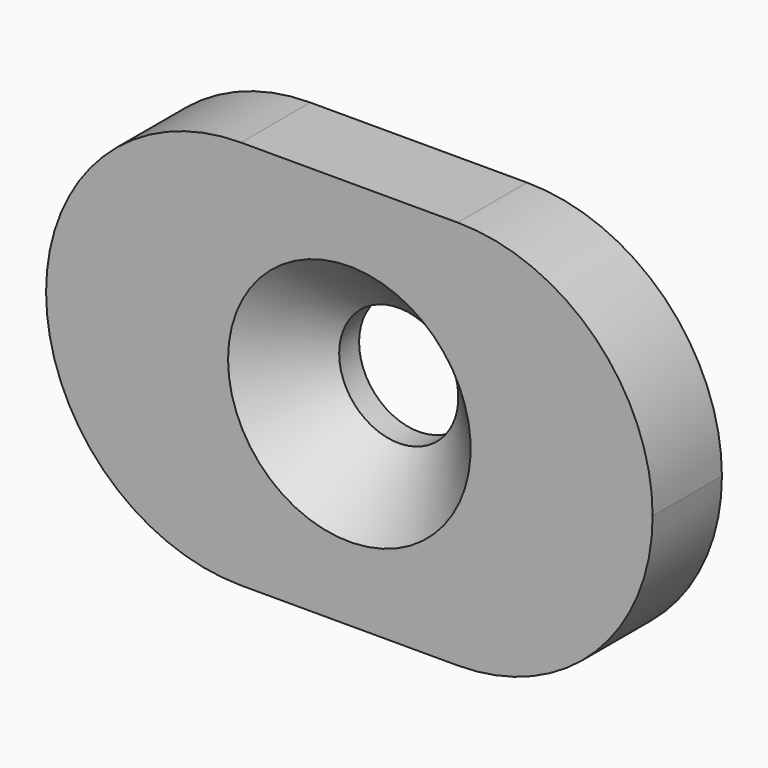
from build123d import *

# Parameters (mm, degrees)
F1_DEPTH       = 4
F3_D           = 5.5
F3_CSINK_D     = 11.2
F3_CSINK_ANGLE = 90


with BuildPart() as f1:
    # F0 (on Front) → F1 (new body)
    with BuildSketch(Plane.XZ):
        with BuildLine():
            ThreePointArc((-14, 0), (-11.3639610307, -6.3639610307), (-5, -9))
            Line((-5, -9), (5, -9))
            ThreePointArc((5, -9), (11.3639610307, -6.3639610307), (14, 0))
            ThreePointArc((14, 0), (11.3639610307, 6.3639610307), (5, 9))
            Line((5, 9), (-5, 9))
            ThreePointArc((-5, 9), (-11.3639610307, 6.3639610307), (-14, 0))
        make_face()
    extrude(amount=F1_DEPTH)

    # F3 (through all)
    with Locations(Plane.XZ.offset(4)):
        with Locations((0, 0)):
            CounterSinkHole(F3_D / 2, F3_CSINK_D / 2, counter_sink_angle=F3_CSINK_ANGLE)


solid = f1.part
